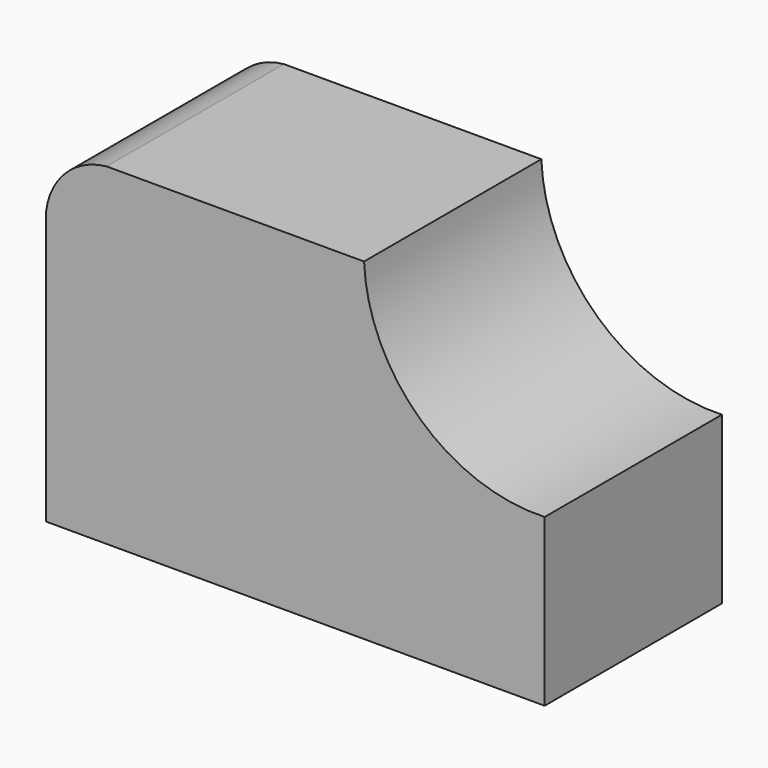
from build123d import *

# Parameters (mm, degrees)
F0_W     = 57.15
F0_H     = 38.1
F1_DEPTH = 25.4
F3_DEPTH = 25.4


with BuildPart() as f1:
    # F0 (on Front) → F1 (new body)
    with BuildSketch(Plane.XZ):
        with Locations((-28.575, 19.05)):
            Rectangle(F0_W, F0_H)
    extrude(amount=F1_DEPTH)

    # F2 (on face) → F3 (cut)
    with BuildSketch(Plane.XZ.offset(25.4)):
        with BuildLine():
            Line((0, 38.1), (-20.702738, 38.1))
            ThreePointArc((-20.702738, 38.1), (-14.283178, 24.302075), (0, 19.05))
            Line((0, 19.05), (0, 38.1))
        make_face()
        with BuildLine():
            ThreePointArc((-57.15, 31.297673), (-54.878227, 35.924092), (-50.205953, 38.1))
            Line((-50.205953, 38.1), (-57.15, 38.1))
            Line((-57.15, 38.1), (-57.15, 31.297673))
        make_face()
    extrude(amount=-F3_DEPTH, mode=Mode.SUBTRACT)


solid = f1.part
